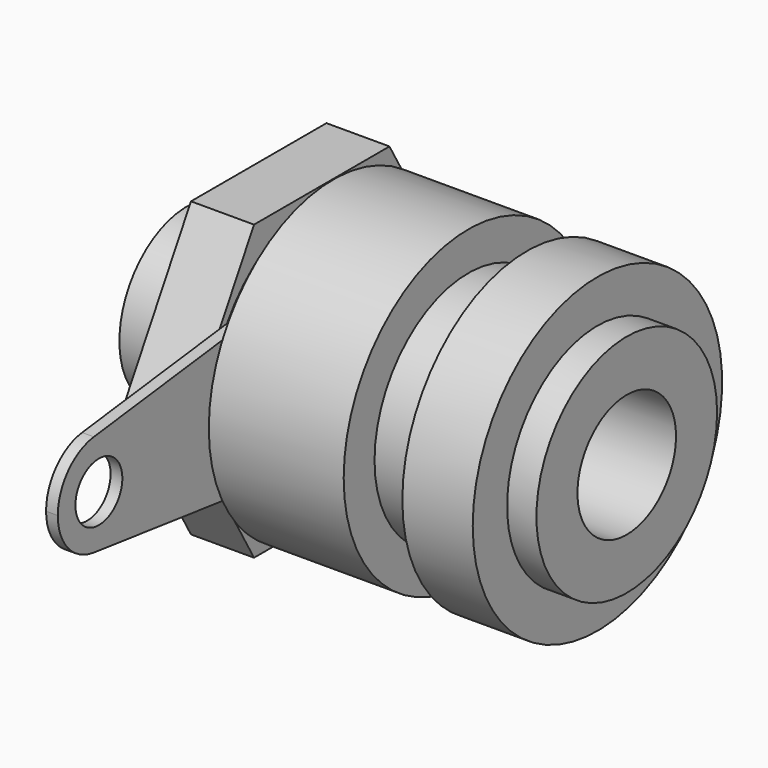
from build123d import *

# Parameters (mm, degrees)
F0_R      = 2.875
F0_R_2    = 2.1
F1_DEPTH  = 15
F0_R_3    = 3.85
F2_DEPTH  = 1
F3_R      = 3.975
F3_R_2    = 3.85
F3_R_3    = 3.05
F4_DEPTH  = 6.4
F3_R_4    = 5.315
F5_DEPTH  = 2.4
F7_R      = 5.315
F7_R_2    = 4
F8_DEPTH  = 4.6
F9_R      = 3.25
F9_R_2    = 1
F10_DEPTH = 0.4
F11_R     = 2.875
F12_DEPTH = 2.15


with BuildPart() as f1:
    # F0 (on Right) → F1 (new body)
    with BuildSketch(Plane.YZ):
        Circle(F0_R)
        Circle(F0_R_2, mode=Mode.SUBTRACT)
    extrude(amount=-F1_DEPTH)

    # F0 (on Right) → F2 (join)
    with BuildSketch(Plane.YZ):
        Circle(F0_R_3)
        Circle(F0_R, mode=Mode.SUBTRACT)
    extrude(amount=-F2_DEPTH)


with BuildPart() as f4:
    # F3 (on face) → F4 (new body)
    with BuildSketch(Plane(origin=(-1, 0, 0), x_dir=(0, -1, 0), z_dir=(-1, 0, 0))):
        Circle(F3_R)
        Circle(F3_R_2, mode=Mode.SUBTRACT)
        Circle(F3_R_2)
        Circle(F3_R_3, mode=Mode.SUBTRACT)
    extrude(amount=F4_DEPTH)

    # F3 (on face) → F5 (join)
    with BuildSketch(Plane(origin=(-1, 0, 0), x_dir=(0, -1, 0), z_dir=(-1, 0, 0))):
        Circle(F3_R_4)
        Circle(F3_R, mode=Mode.SUBTRACT)
    extrude(amount=F5_DEPTH)


with BuildPart() as f8:
    # F7 (on offset) → F8 (new body)
    with BuildSketch(Plane(origin=(-5.4, 0, 0), x_dir=(0, -1, 0), z_dir=(-1, 0, 0))):
        Circle(F7_R)
        Circle(F7_R_2, mode=Mode.SUBTRACT)
    extrude(amount=F8_DEPTH)


with BuildPart() as f10:
    # F9 (on face) → F10 (new body)
    with BuildSketch(Plane(origin=(-10, 0, 0), x_dir=(0, -1, 0), z_dir=(-1, 0, 0))):
        with BuildLine():
            ThreePointArc((4.038874, -2.5), (4.568761, -1.299587), (4.75, 0))
            ThreePointArc((4.75, 0), (4.568761, 1.299587), (4.038874, 2.5))
            ThreePointArc((4.038874, 2.5), (-4.75, 0), (4.038874, -2.5))
        make_face()
        Circle(F9_R, mode=Mode.SUBTRACT)
        with BuildLine():
            ThreePointArc((4.038874, 2.5), (4.568761, 1.299587), (4.75, 0))
            ThreePointArc((4.75, 0), (4.568761, -1.299587), (4.038874, -2.5))
            Line((4.038874, -2.5), (10.214635, -1.736788))
            ThreePointArc((10.214635, -1.736788), (8.25, 0), (10.214635, 1.736788))
            Line((10.214635, 1.736788), (4.038874, 2.5))
        make_face()
        with BuildLine():
            ThreePointArc((11.75, 0), (11.311128, 1.15907), (10.214635, 1.736788))
            ThreePointArc((10.214635, 1.736788), (8.25, 0), (10.214635, -1.736788))
            ThreePointArc((10.214635, -1.736788), (11.311128, -1.15907), (11.75, 0))
        make_face()
        with Locations((10, 0)):
            Circle(F9_R_2, mode=Mode.SUBTRACT)
    extrude(amount=F10_DEPTH)


with BuildPart() as f12:
    # F11 (on face) → F12 (new body)
    with BuildSketch(Plane(origin=(-10.4, 0, 0), x_dir=(0, -1, 0), z_dir=(-1, 0, 0))):
        Polygon((5.773503, 0), (2.886751, 5), (-2.886751, 5), (-5.773503, 0), (-2.886751, -5), (2.886751, -5), align=None)
        Circle(F11_R, mode=Mode.SUBTRACT)
    extrude(amount=F12_DEPTH)


solid = Compound([f1.part, f4.part, f8.part, f10.part, f12.part])
